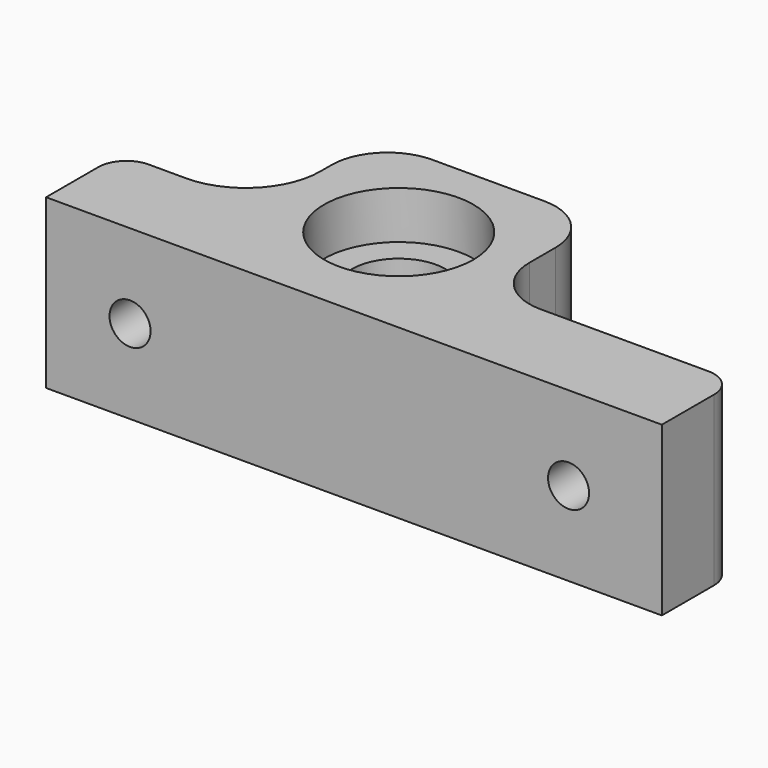
from build123d import *

# Parameters (mm, degrees)
SKETCH_R        = 5
PAD_DEPTH       = 9
SKETCH005_R     = 2.2
POCKET_DEPTH    = 25.501
SKETCH006_R     = 8
POCKET001_DEPTH = 5.1
SKETCH007_R     = 4.125
POCKET002_DEPTH = 4.2
FILLET_R        = 3


with BuildPart() as part:
    # Sketch → Pad (new body, symmetric)
    with BuildSketch(Plane.XY):
        with BuildLine():
            Line((-6, 25.5), (6, 25.5))
            ThreePointArc((12, 19.5), (10.242641, 23.742641), (6, 25.5))
            Line((12, 19.5), (12, 16))
            ThreePointArc((12, 16), (13.757359, 11.757359), (18, 10))
            Line((18, 10), (39, 10))
            Line((39, 10), (39, 0))
            Line((39, 0), (-27, 0))
            Line((-27, 0), (-27, 10))
            Line((-27, 10), (-20, 10))
            ThreePointArc((-20, 10), (-14.343146, 12.343146), (-12, 18))
            Line((-12, 18), (-12, 19.5))
            ThreePointArc((-6, 25.5), (-10.242641, 23.742641), (-12, 19.5))
        make_face()
        with Locations((0, 13.5)):
            Circle(SKETCH_R, mode=Mode.SUBTRACT)
    extrude(amount=PAD_DEPTH, both=True)

    # Sketch005 (on Face7 of Pad) → Pocket (cut, through all)
    with BuildSketch(Plane.XZ):
        with Locations((29, 0)):
            Circle(SKETCH005_R)
        with Locations((-18, 0)):
            Circle(SKETCH005_R)
    extrude(amount=-POCKET_DEPTH, mode=Mode.SUBTRACT)

    # Sketch006 (on Face5 of Pocket) → Pocket001 (cut)
    with BuildSketch(Plane.XY.offset(9)):
        with Locations((0, 13.5)):
            Circle(SKETCH006_R)
    extrude(amount=-POCKET001_DEPTH, mode=Mode.SUBTRACT)

    # Sketch007 (on Face9 of Pocket001) → Pocket002 (cut, symmetric)
    with BuildSketch(Plane(origin=(0, 10, 0), x_dir=(-1, 0, 0), z_dir=(0, 1, 0))):
        with Locations((18, 0)):
            Circle(SKETCH007_R)
        with Locations((-29, 0)):
            Circle(SKETCH007_R)
    extrude(amount=POCKET002_DEPTH, both=True, mode=Mode.SUBTRACT)

    # Fillet
    fillet_edges = [part.edges().sort_by_distance(p)[0] for p in [
        (39, 10, 0),
        (-27, 10, 0),
    ]]
    fillet(fillet_edges, radius=FILLET_R)


solid = part.part
